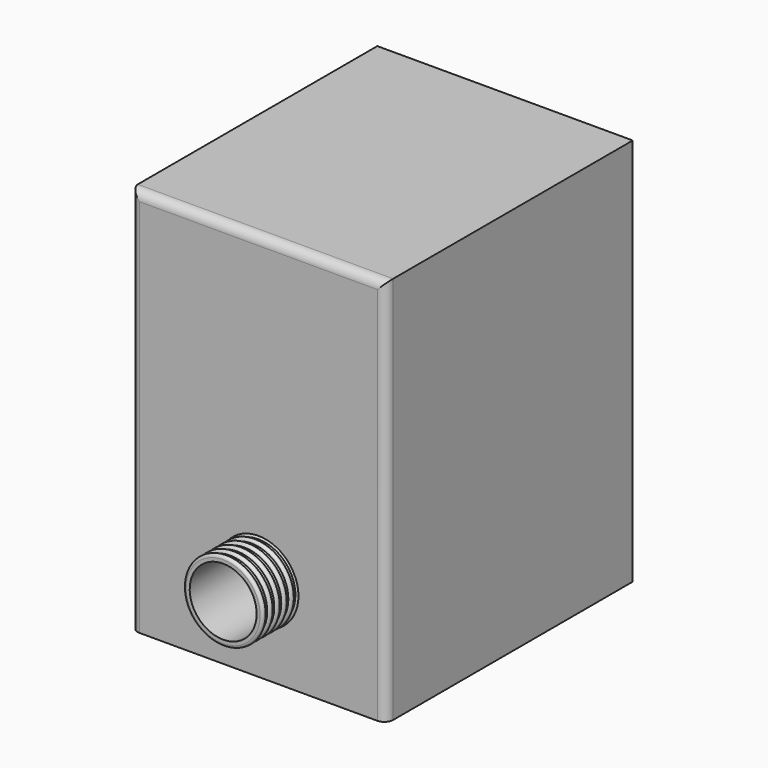
from build123d import *

# Parameters (mm, degrees)
F3_START = -50
F2_W     = 290
F2_H     = 441
F2_R     = 45.5
F3_DEPTH = 350
F4_R     = 10


with BuildPart() as f1:
    # F0 (on Right) → F1 (revolve)
    with BuildSketch(Plane.YZ):
        with BuildLine():
            Line((390, 42), (390, 38))
            Line((390, 38), (400, 38))
            Line((400, 38), (400, 42))
            Line((400, 42), (396, 42))
            ThreePointArc((396, 42), (393, 45), (390, 42))
        make_face()
        with BuildLine():
            Line((300, 42), (300, 38))
            Line((300, 38), (310, 38))
            Line((310, 38), (310, 42))
            Line((310, 42), (306, 42))
            ThreePointArc((306, 42), (303, 45), (300, 42))
        make_face()
        with BuildLine():
            Line((230, 42), (230, 38))
            Line((230, 38), (240, 38))
            Line((240, 38), (240, 42))
            Line((240, 42), (236, 42))
            ThreePointArc((236, 42), (233, 45), (230, 42))
        make_face()
        with BuildLine():
            Line((240, 42), (240, 38))
            Line((240, 38), (250, 38))
            Line((250, 38), (250, 42))
            Line((250, 42), (246, 42))
            ThreePointArc((246, 42), (243, 45), (240, 42))
        make_face()
        with BuildLine():
            Line((40, 42), (40, 38))
            Line((40, 38), (50, 38))
            Line((50, 38), (50, 42))
            Line((50, 42), (46, 42))
            ThreePointArc((46, 42), (43, 45), (40, 42))
        make_face()
        with BuildLine():
            Line((90, 42), (90, 38))
            Line((90, 38), (100, 38))
            Line((100, 38), (100, 42))
            Line((100, 42), (96, 42))
            ThreePointArc((96, 42), (93, 45), (90, 42))
        make_face()
        with BuildLine():
            Line((100, 42), (100, 38))
            Line((100, 38), (110, 38))
            Line((110, 38), (110, 42))
            Line((110, 42), (106, 42))
            ThreePointArc((106, 42), (103, 45), (100, 42))
        make_face()
        with BuildLine():
            Line((50, 42), (50, 38))
            Line((50, 38), (60, 38))
            Line((60, 38), (60, 42))
            Line((60, 42), (56, 42))
            ThreePointArc((56, 42), (53, 45), (50, 42))
        make_face()
        with BuildLine():
            Line((70, 42), (70, 38))
            Line((70, 38), (80, 38))
            Line((80, 38), (80, 42))
            Line((80, 42), (76, 42))
            ThreePointArc((76, 42), (73, 45), (70, 42))
        make_face()
        with BuildLine():
            Line((80, 42), (80, 38))
            Line((80, 38), (90, 38))
            Line((90, 38), (90, 42))
            Line((90, 42), (86, 42))
            ThreePointArc((86, 42), (83, 45), (80, 42))
        make_face()
        with BuildLine():
            Line((120, 42), (120, 38))
            Line((120, 38), (130, 38))
            Line((130, 38), (130, 42))
            Line((130, 42), (126, 42))
            ThreePointArc((126, 42), (123, 45), (120, 42))
        make_face()
        with BuildLine():
            Line((140, 42), (140, 38))
            Line((140, 38), (150, 38))
            Line((150, 38), (150, 42))
            Line((150, 42), (146, 42))
            ThreePointArc((146, 42), (143, 45), (140, 42))
        make_face()
        with BuildLine():
            Line((210, 42), (210, 38))
            Line((210, 38), (220, 38))
            Line((220, 38), (220, 42))
            Line((220, 42), (216, 42))
            ThreePointArc((216, 42), (213, 45), (210, 42))
        make_face()
        with BuildLine():
            Line((370, 42), (370, 38))
            Line((370, 38), (380, 38))
            Line((380, 38), (380, 42))
            Line((380, 42), (376, 42))
            ThreePointArc((376, 42), (373, 45), (370, 42))
        make_face()
        with BuildLine():
            Line((360, 42), (360, 38))
            Line((360, 38), (370, 38))
            Line((370, 38), (370, 42))
            Line((370, 42), (366, 42))
            ThreePointArc((366, 42), (363, 45), (360, 42))
        make_face()
        with BuildLine():
            Line((200, 42), (200, 38))
            Line((200, 38), (210, 38))
            Line((210, 38), (210, 42))
            Line((210, 42), (206, 42))
            ThreePointArc((206, 42), (203, 45), (200, 42))
        make_face()
        with BuildLine():
            Line((350, 42), (350, 38))
            Line((350, 38), (360, 38))
            Line((360, 38), (360, 42))
            Line((360, 42), (356, 42))
            ThreePointArc((356, 42), (353, 45), (350, 42))
        make_face()
        with BuildLine():
            Line((190, 42), (190, 38))
            Line((190, 38), (200, 38))
            Line((200, 38), (200, 42))
            Line((200, 42), (196, 42))
            ThreePointArc((196, 42), (193, 45), (190, 42))
        make_face()
        with BuildLine():
            Line((340, 42), (340, 38))
            Line((340, 38), (350, 38))
            Line((350, 38), (350, 42))
            Line((350, 42), (346, 42))
            ThreePointArc((346, 42), (343, 45), (340, 42))
        make_face()
        with BuildLine():
            Line((180, 42), (180, 38))
            Line((180, 38), (190, 38))
            Line((190, 38), (190, 42))
            Line((190, 42), (186, 42))
            ThreePointArc((186, 42), (183, 45), (180, 42))
        make_face()
        with BuildLine():
            Line((310, 42), (310, 38))
            Line((310, 38), (320, 38))
            Line((320, 38), (320, 42))
            Line((320, 42), (316, 42))
            ThreePointArc((316, 42), (313, 45), (310, 42))
        make_face()
        with BuildLine():
            Line((150, 42), (150, 38))
            Line((150, 38), (160, 38))
            Line((160, 38), (160, 42))
            Line((160, 42), (156, 42))
            ThreePointArc((156, 42), (153, 45), (150, 42))
        make_face()
        with BuildLine():
            Line((30, 42), (30, 38))
            Line((30, 38), (40, 38))
            Line((40, 38), (40, 42))
            Line((40, 42), (36, 42))
            ThreePointArc((36, 42), (33, 45), (30, 42))
        make_face()
        with BuildLine():
            Line((20, 42), (20, 38))
            Line((20, 38), (30, 38))
            Line((30, 38), (30, 42))
            Line((30, 42), (26, 42))
            ThreePointArc((26, 42), (23, 45), (20, 42))
        make_face()
        with BuildLine():
            Line((0, 42), (0, 38))
            Line((0, 38), (10, 38))
            Line((10, 38), (10, 42))
            Line((10, 42), (6, 42))
            ThreePointArc((6, 42), (3, 45), (0, 42))
        make_face()
        with BuildLine():
            Line((260, 42), (260, 38))
            Line((260, 38), (270, 38))
            Line((270, 38), (270, 42))
            Line((270, 42), (266, 42))
            ThreePointArc((266, 42), (263, 45), (260, 42))
        make_face()
        with BuildLine():
            Line((280, 42), (280, 38))
            Line((280, 38), (290, 38))
            Line((290, 38), (290, 42))
            Line((290, 42), (286, 42))
            ThreePointArc((286, 42), (283, 45), (280, 42))
        make_face()
        with BuildLine():
            Line((250, 42), (250, 38))
            Line((250, 38), (260, 38))
            Line((260, 38), (260, 42))
            Line((260, 42), (256, 42))
            ThreePointArc((256, 42), (253, 45), (250, 42))
        make_face()
        with BuildLine():
            Line((60, 42), (60, 38))
            Line((60, 38), (70, 38))
            Line((70, 38), (70, 42))
            Line((70, 42), (66, 42))
            ThreePointArc((66, 42), (63, 45), (60, 42))
        make_face()
        with BuildLine():
            Line((380, 42), (380, 38))
            Line((380, 38), (390, 38))
            Line((390, 38), (390, 42))
            Line((390, 42), (386, 42))
            ThreePointArc((386, 42), (383, 45), (380, 42))
        make_face()
        with BuildLine():
            Line((220, 42), (220, 38))
            Line((220, 38), (230, 38))
            Line((230, 38), (230, 42))
            Line((230, 42), (226, 42))
            ThreePointArc((226, 42), (223, 45), (220, 42))
        make_face()
        with BuildLine():
            Line((110, 42), (110, 38))
            Line((110, 38), (120, 38))
            Line((120, 38), (120, 42))
            Line((120, 42), (116, 42))
            ThreePointArc((116, 42), (113, 45), (110, 42))
        make_face()
        with BuildLine():
            Line((330, 42), (330, 38))
            Line((330, 38), (340, 38))
            Line((340, 38), (340, 42))
            Line((340, 42), (336, 42))
            ThreePointArc((336, 42), (333, 45), (330, 42))
        make_face()
        with BuildLine():
            Line((170, 42), (170, 38))
            Line((170, 38), (180, 38))
            Line((180, 38), (180, 42))
            Line((180, 42), (176, 42))
            ThreePointArc((176, 42), (173, 45), (170, 42))
        make_face()
        with BuildLine():
            Line((320, 42), (320, 38))
            Line((320, 38), (330, 38))
            Line((330, 38), (330, 42))
            Line((330, 42), (326, 42))
            ThreePointArc((326, 42), (323, 45), (320, 42))
        make_face()
        with BuildLine():
            Line((160, 42), (160, 38))
            Line((160, 38), (170, 38))
            Line((170, 38), (170, 42))
            Line((170, 42), (166, 42))
            ThreePointArc((166, 42), (163, 45), (160, 42))
        make_face()
        with BuildLine():
            Line((10, 42), (10, 38))
            Line((10, 38), (20, 38))
            Line((20, 38), (20, 42))
            Line((20, 42), (16, 42))
            ThreePointArc((16, 42), (13, 45), (10, 42))
        make_face()
        with BuildLine():
            Line((270, 42), (270, 38))
            Line((270, 38), (280, 38))
            Line((280, 38), (280, 42))
            Line((280, 42), (276, 42))
            ThreePointArc((276, 42), (273, 45), (270, 42))
        make_face()
        with BuildLine():
            Line((130, 42), (130, 38))
            Line((130, 38), (140, 38))
            Line((140, 38), (140, 42))
            Line((140, 42), (136, 42))
            ThreePointArc((136, 42), (133, 45), (130, 42))
        make_face()
        with BuildLine():
            Line((290, 42), (290, 38))
            Line((290, 38), (300, 38))
            Line((300, 38), (300, 42))
            Line((300, 42), (296, 42))
            ThreePointArc((296, 42), (293, 45), (290, 42))
        make_face()
    revolve(axis=Axis((0, 200, 0), (0, 1, 0)))


with BuildPart() as f3:
    # F2 (on Front) → F3 (new body)
    with BuildSketch(Plane.XZ.offset(F3_START)):
        with Locations((0, 125)):
            Rectangle(F2_W, F2_H)
        Circle(F2_R, mode=Mode.SUBTRACT)
    extrude(amount=-F3_DEPTH)

    # F4
    f4_edges = [f3.edges().sort_by_distance(p)[0] for p in [
        (0, 50, 345.5),
        (145, 50, 125),
        (-145, 50, 125),
    ]]
    fillet(f4_edges, radius=F4_R)


solid = Compound([f1.part, f3.part])
